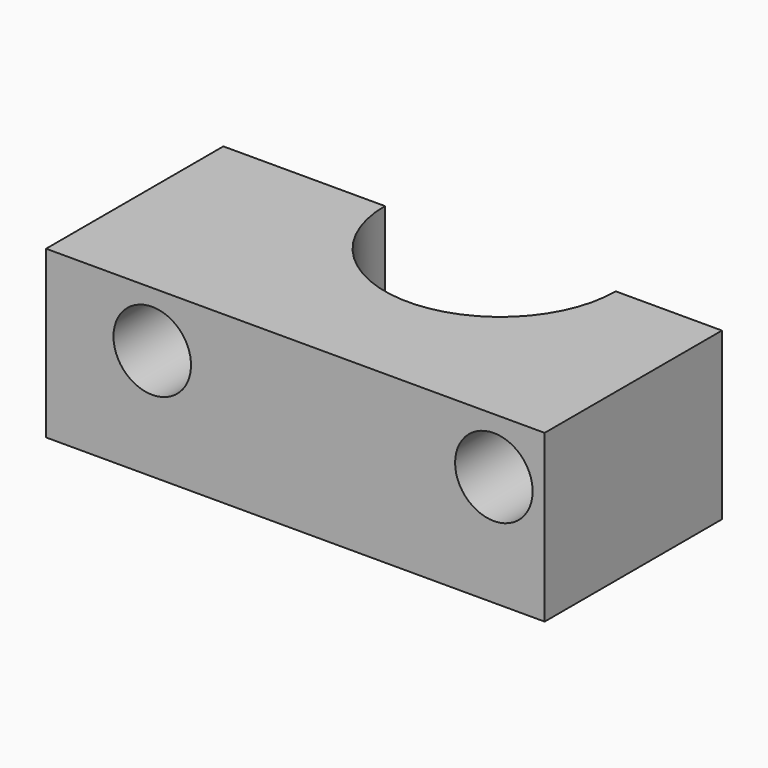
from build123d import *

# Parameters (mm, degrees)
F0_W     = 27
F0_H     = 9
F1_DEPTH = 12
F2_R     = 6.25
F3_DEPTH = 9.001
F4_R     = 8.25
F5_DEPTH = 3
F6_R     = 2.1
F7_DEPTH = 12.001


with BuildPart() as f1:
    # F0 (on Front) → F1 (new body)
    with BuildSketch(Plane.XZ):
        with Locations((-1.5, 4.5)):
            Rectangle(F0_W, F0_H)
    extrude(amount=F1_DEPTH)

    # F2 (on face) → F3 (cut, through all)
    with BuildSketch(Plane.XY.offset(9)):
        Circle(F2_R)
    extrude(amount=-F3_DEPTH, mode=Mode.SUBTRACT)

    # F4 (on face) → F5 (cut)
    with BuildSketch(Plane(origin=(0, 0, 0), x_dir=(1, 0, 0), z_dir=(0, 0, -1))):
        Circle(F4_R)
    extrude(amount=-F5_DEPTH, mode=Mode.SUBTRACT)

    # F6 (on face) → F7 (cut, through all)
    with BuildSketch(Plane(origin=(0, 0, 0), x_dir=(-1, 0, 0), z_dir=(0, 1, 0))):
        with Locations((-9.25, 6)):
            Circle(F6_R)
        with Locations((9.25, 6)):
            Circle(F6_R)
    extrude(amount=-F7_DEPTH, mode=Mode.SUBTRACT)


solid = f1.part
